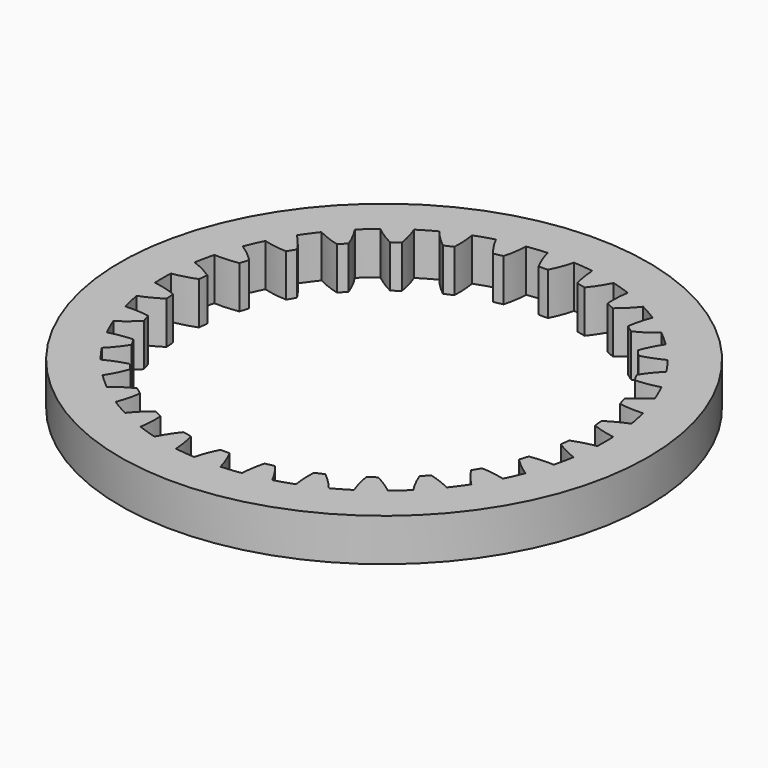
from build123d import *

# Parameters (mm, degrees)
F0_R     = 39.37
F1_DEPTH = 6.35
F2_COUNT = 30


with BuildPart() as f1:
    # F0 (on Top) → F1 (new body)
    with BuildSketch(Plane.XY):
        Circle(F0_R)
        with BuildLine():
            ThreePointArc((-1.9685, -32.9612713309), (-22.6420022304, 24.0345612608), (33.02, 0))
            ThreePointArc((33.02, 0), (24.0353171546, -22.6411998197), (1.9707008312, -32.96113982))
            ThreePointArc((1.9707008312, -32.96113982), (0.0011023785, -33.0199999816), (-1.9685, -32.9612713309))
        make_face(mode=Mode.SUBTRACT)
        with BuildLine():
            ThreePointArc((-0.7022979433, -29.6435257665), (-1.4284612467, -31.2668817673), (-1.9685, -32.9612713309))
            ThreePointArc((-1.9685, -32.9612713309), (0.0011023785, -33.0199999816), (1.9707008312, -32.96113982))
            ThreePointArc((1.9707008312, -32.96113982), (1.4194721848, -31.2703575076), (0.6825926623, -29.6518376845))
            ThreePointArc((0.6825926623, -29.6518376845), (-0.0097619571, -29.6325725152), (-0.7022979433, -29.6435257665))
        make_face()
    extrude(amount=F1_DEPTH)

    # F2: F1 ×30 about axis
    f2_axis = Axis((0, 0, 0), (0, 0, -1))


with BuildPart() as f1_1:
    add(f1.part)
    for i in range(1, F2_COUNT):
        add(f1.part.rotate(f2_axis, i * 360 / F2_COUNT))


solid = f1_1.part
